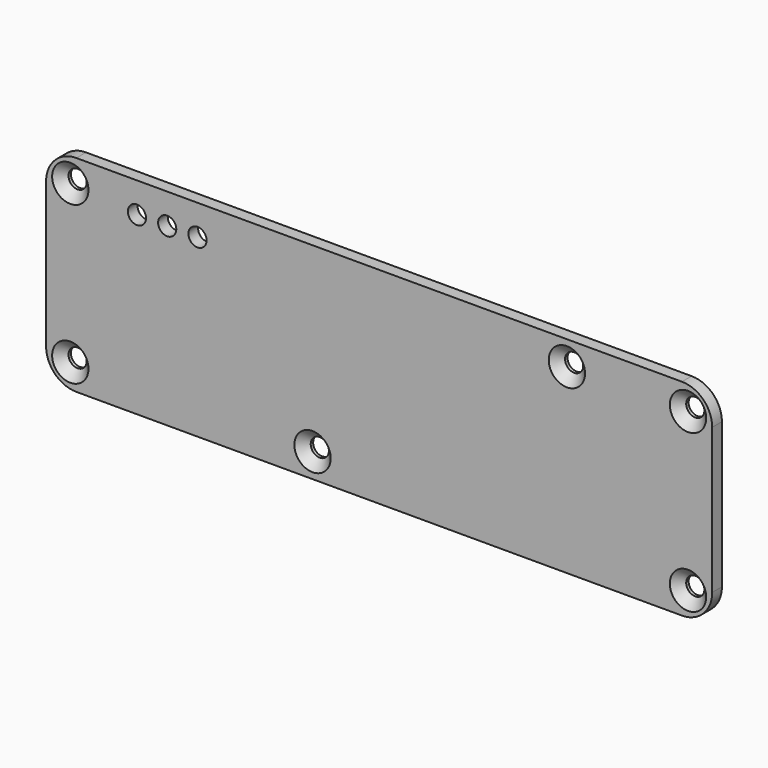
from build123d import *

# Parameters (mm, degrees)
F0_R     = 1.5
F1_DEPTH = 2
F2_SIZE  = 1.5


with BuildPart() as f1:
    # F0 (on Front) → F1 (new body)
    with BuildSketch(Plane.XZ):
        with BuildLine():
            Line((55.784955, 17.79645), (-44.215045, 17.79645))
            ThreePointArc((-44.215045, 17.79645), (-47.750579, 16.331984), (-49.215045, 12.79645))
            Line((-49.215045, 12.79645), (-49.215045, -11.20355))
            ThreePointArc((-49.215045, -11.20355), (-47.750579, -14.739083), (-44.215045, -16.20355))
            Line((-44.215045, -16.20355), (55.784955, -16.20355))
            ThreePointArc((55.784955, -16.20355), (59.320489, -14.739083), (60.784955, -11.20355))
            Line((60.784955, -11.20355), (60.784955, 12.79645))
            ThreePointArc((60.784955, 12.79645), (59.320489, 16.331984), (55.784955, 17.79645))
        make_face()
        with Locations((-45.215045, -12.20355)):
            Circle(F0_R, mode=Mode.SUBTRACT)
        with Locations((-5.215045, -12.20355)):
            Circle(F0_R, mode=Mode.SUBTRACT)
        with Locations((56.784955, -12.20355)):
            Circle(F0_R, mode=Mode.SUBTRACT)
        with Locations((-34.215045, 12.79645)):
            Circle(F0_R, mode=Mode.SUBTRACT)
        with Locations((-29.215045, 12.79645)):
            Circle(F0_R, mode=Mode.SUBTRACT)
        with Locations((-24.215045, 12.79645)):
            Circle(F0_R, mode=Mode.SUBTRACT)
        with Locations((-45.215045, 13.79645)):
            Circle(F0_R, mode=Mode.SUBTRACT)
        with Locations((36.784955, 13.79645)):
            Circle(F0_R, mode=Mode.SUBTRACT)
        with Locations((56.784955, 13.79645)):
            Circle(F0_R, mode=Mode.SUBTRACT)
    extrude(amount=F1_DEPTH)

    # F2
    f2_edges = [f1.edges().sort_by_distance(p)[0] for p in [
        (-46.715045, -2, 13.79645),
        (-46.715045, -2, -12.20355),
        (-6.715045, -2, -12.20355),
        (35.284955, -2, 13.79645),
        (55.284955, -2, 13.79645),
        (55.284955, -2, -12.20355),
    ]]
    chamfer(f2_edges, length=F2_SIZE)


solid = f1.part
